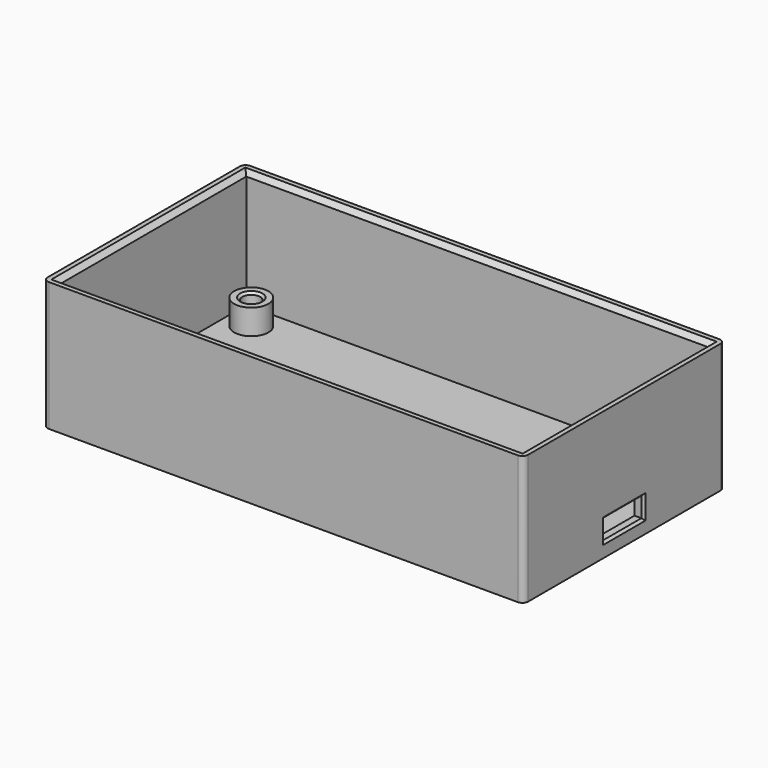
from build123d import *

# Parameters (mm, degrees)
SKETCH001_W     = 84
SKETCH001_H     = 44
SKETCH001_W_2   = 80.8
SKETCH001_H_2   = 40.8
PAD_DEPTH       = 20.6
SKETCH002_W     = 84
SKETCH002_H     = 44
PAD001_DEPTH    = 2
SKETCH003_R     = 3
SKETCH003_R_2   = 1.55
PAD002_DEPTH    = 4.4
SKETCH004_W     = 8.5
SKETCH004_H     = 3.45
POCKET_DEPTH    = 1.6
CHAMFER_SIZE    = 0.8
CHAMFER001_SIZE = 0.4
FILLET_R        = 1
CHAMFER002_SIZE = 0.4


with BuildPart() as part:
    # Sketch001 → Pad (new body)
    with BuildSketch(Plane.XY):
        with Locations((42, 22)):
            Rectangle(SKETCH001_W, SKETCH001_H)
        with Locations((42, 22)):
            Rectangle(SKETCH001_W_2, SKETCH001_H_2, mode=Mode.SUBTRACT)
    extrude(amount=PAD_DEPTH)

    # Sketch002 (on Face9 of Pad) → Pad001 (join)
    with BuildSketch(Plane(origin=(0, 0, 0), x_dir=(1, 0, 0), z_dir=(0, 0, -1))):
        with Locations((42, -22)):
            Rectangle(SKETCH002_W, SKETCH002_H)
    extrude(amount=PAD001_DEPTH)

    # Sketch003 (on Face8 of Pad001) → Pad002 (join)
    with BuildSketch(Plane.XY):
        with Locations((6, 38)):
            Circle(SKETCH003_R)
        with Locations((6, 38)):
            Circle(SKETCH003_R_2, mode=Mode.SUBTRACT)
        with Locations((78, 38)):
            Circle(SKETCH003_R)
        with Locations((78, 38)):
            Circle(SKETCH003_R_2, mode=Mode.SUBTRACT)
        with Locations((78, 6)):
            Circle(SKETCH003_R)
        with Locations((78, 6)):
            Circle(SKETCH003_R_2, mode=Mode.SUBTRACT)
        with Locations((6, 6)):
            Circle(SKETCH003_R)
        with Locations((6, 6)):
            Circle(SKETCH003_R_2, mode=Mode.SUBTRACT)
    extrude(amount=PAD002_DEPTH)

    # Sketch004 (on Face4 of Pad002) → Pocket (cut)
    with BuildSketch(Plane.YZ.offset(84)):
        with Locations((22, 2.175)):
            Rectangle(SKETCH004_W, SKETCH004_H)
    extrude(amount=-POCKET_DEPTH, mode=Mode.SUBTRACT)

    # Chamfer
    chamfer_edges = [part.edges().sort_by_distance(p)[0] for p in [
        (1.6, 22, 20.6),
        (42, 42.4, 20.6),
        (82.4, 22, 20.6),
        (42, 1.6, 20.6),
    ]]
    chamfer(chamfer_edges, length=CHAMFER_SIZE)

    # Chamfer001
    chamfer001_edges = [part.edges().sort_by_distance(p)[0] for p in [
        (4.45, 38, 4.4),
        (76.45, 38, 4.4),
        (76.45, 6, 4.4),
        (4.45, 6, 4.4),
    ]]
    chamfer(chamfer001_edges, length=CHAMFER001_SIZE)

    # Fillet
    fillet_edges = [part.edges().sort_by_distance(p)[0] for p in [
        (0, 0, 9.3),
        (84, 0, 9.3),
        (84, 44, 9.3),
        (0, 44, 9.3),
    ]]
    fillet(fillet_edges, radius=FILLET_R)

    # Chamfer002
    chamfer002_edges = [part.edges().sort_by_distance(p)[0] for p in [
        (84, 22, 3.9),
        (84, 26.25, 2.175),
        (84, 22, 0.45),
        (84, 17.75, 2.175),
    ]]
    chamfer(chamfer002_edges, length=CHAMFER002_SIZE)


solid = part.part
